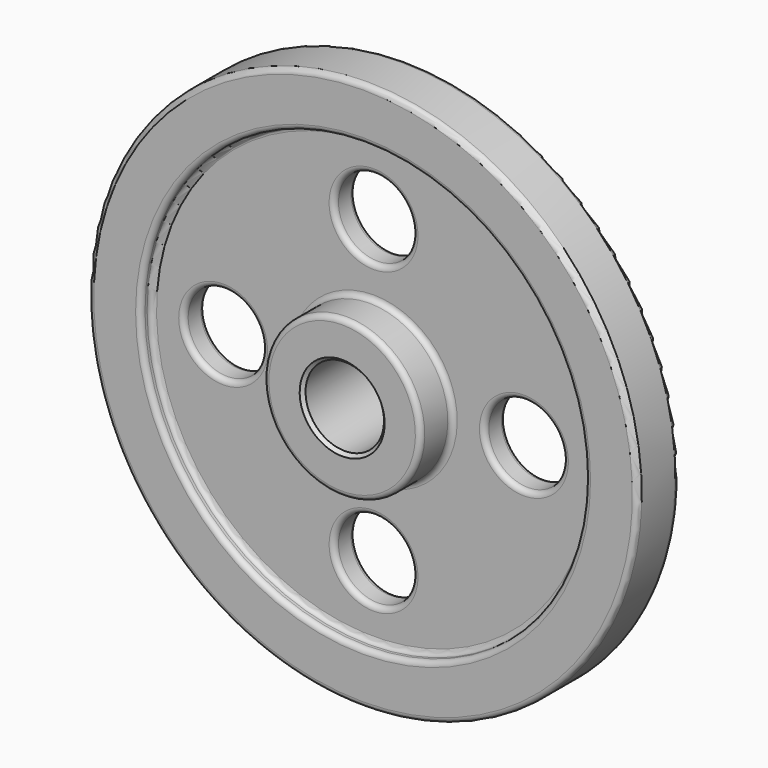
from build123d import *

# Parameters (mm, degrees)
F2_R     = 19.05
F3_DEPTH = 25.4
F4_R     = 2.54
F5_SIZE  = 1.5875


with BuildPart() as f1:
    # F0 (on Right) → F1 (revolve)
    with BuildSketch(Plane.YZ):
        Polygon((25.4, 38.1), (6.35, 38.1), (6.35, 107.95), (12.7, 107.95), (12.7, 133.35), (-12.7, 133.35), (-12.7, 107.95), (-6.35, 107.95), (-6.35, 38.1), (-25.4, 38.1), (-25.4, 19.05), (25.4, 19.05), align=None)
    revolve(axis=Axis((0, 38.1191931665, 0), (0, 1, 0)))

    # F2 (on face) → F3 (cut)
    with BuildSketch(Plane(origin=(0, 6.35, 0), x_dir=(-1, 0, 0), z_dir=(0, 1, 0))):
        with Locations((-73.025, 0)):
            Circle(F2_R)
        with Locations((0, -73.025)):
            Circle(F2_R)
        with Locations((73.025, 0)):
            Circle(F2_R)
        with BuildLine():
            ThreePointArc((19.05, 73.025), (-13.4703841816, 86.4953841816), (0, 53.975))
            ThreePointArc((0, 53.975), (13.4703841816, 59.5546158184), (19.05, 73.025))
        make_face()
    extrude(amount=-F3_DEPTH, mode=Mode.SUBTRACT)

    # F4
    f4_edges = [f1.edges().sort_by_distance(p)[0] for p in [
        (19.05, 6.35, -73.025),
        (92.075, 6.35, 0),
        (0, 6.35, 92.075),
        (-53.975, 6.35, 0),
        (0, 6.35, -107.95),
        (0, 12.7, -133.35),
        (0, 6.35, -38.1),
        (0, -6.35, -38.1),
        (0, -6.35, 92.075),
        (-53.975, -6.35, 0),
        (92.075, -6.35, 0),
        (19.05, -6.35, -73.025),
        (0, -6.35, -107.95),
        (0, -25.4, -38.1),
        (0, 25.4, -38.1),
        (0, -12.7, -133.35),
        (0, -12.7, -107.95),
    ]]
    fillet(f4_edges, radius=F4_R)

    # F5
    f5_edges = [f1.edges().sort_by_distance(p)[0] for p in [
        (0, -25.4, -19.05),
        (0, 25.4, -19.05),
        (0, 0, 19.05),
    ]]
    chamfer(f5_edges, length=F5_SIZE)


solid = f1.part
